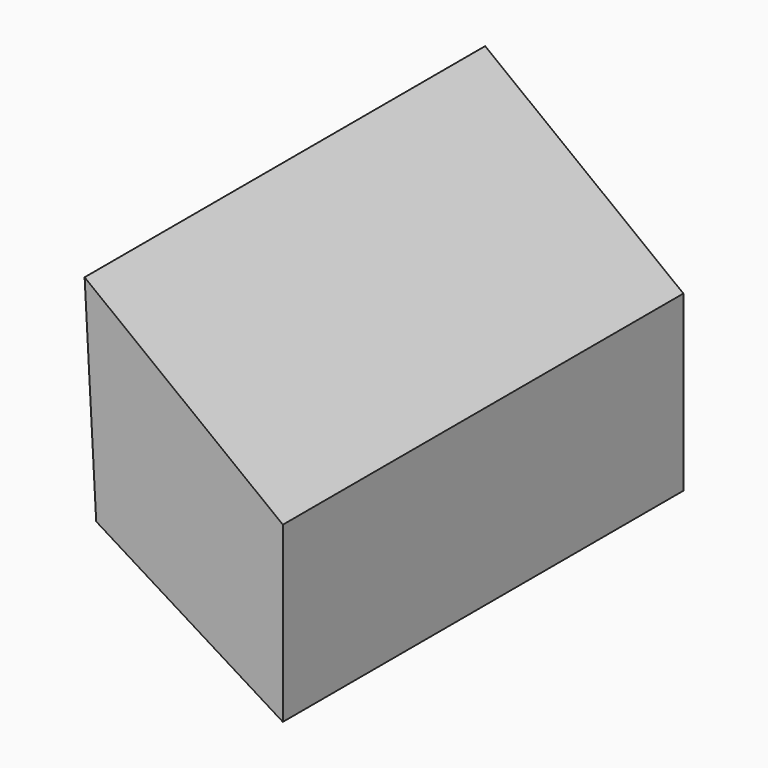
from build123d import *

# Parameters (mm, degrees)
F1_DEPTH = 25.4


with BuildPart() as f1:
    # F0 (on Front) → F1 (new body)
    with BuildSketch(Plane.XZ):
        Polygon((0, 26.131706), (-20.112606, 41.693285), (-18.938147, 20.259414), (0, 8.514826), align=None)
    extrude(amount=F1_DEPTH)

    # F2: F1 across plane


with BuildPart() as f1_1:
    add(f1.part)
    add(f1.part.mirror(Plane.XZ))


solid = f1_1.part
